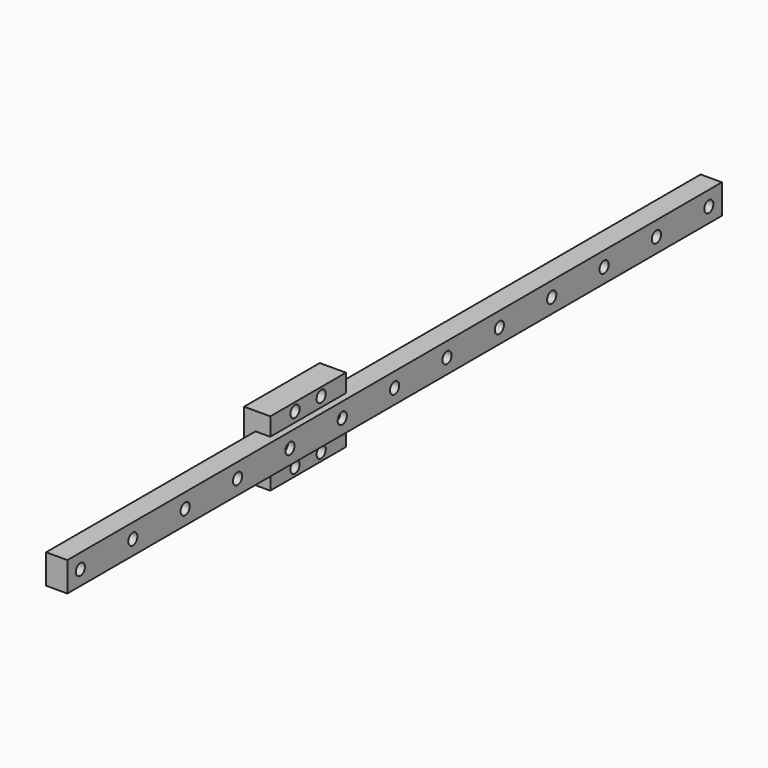
from build123d import *

# Parameters (mm, degrees)
SKETCH026_W             = 9
SKETCH026_H             = 250
PAD014_DEPTH            = 6.5
SKETCH027_R             = 1.75
POCKET010_DEPTH         = 6.5
LINEARPATTERN005_COUNT  = 13
LINEARPATTERN005_PITCH  = 20
SKETCH028_R             = 3
POCKET011_DEPTH         = 3.5
LINEARPATTERN004_COUNT  = 13
LINEARPATTERN004_PITCH  = 20
SKETCH025_W             = 20
SKETCH025_H             = 28.9
SKETCH025_R             = 1.75
PAD015_DEPTH            = 8
BODY006_PLACEMENT_ANGLE = 90


with BuildPart() as part:
    # Sketch026 → Pad014 (new body)
    with BuildSketch(Plane.XY):
        with Locations((0, 125)):
            Rectangle(SKETCH026_W, SKETCH026_H)
    extrude(amount=-PAD014_DEPTH)

    # Sketch027 → Pocket010 (cut)
    with BuildSketch(Plane.XY):
        with Locations((0, 5)):
            Circle(SKETCH027_R)
    pocket010 = extrude(amount=-POCKET010_DEPTH, mode=Mode.SUBTRACT)

    # LinearPattern005: Pocket010 ×13
    with Locations(*[(0, i * LINEARPATTERN005_PITCH, 0) for i in range(1, LINEARPATTERN005_COUNT)]):
        add(pocket010, mode=Mode.SUBTRACT)

    # Sketch028 → Pocket011 (cut)
    with BuildSketch(Plane.XY):
        with Locations((0, 5)):
            Circle(SKETCH028_R)
    pocket011 = extrude(amount=-POCKET011_DEPTH, mode=Mode.SUBTRACT)

    # LinearPattern004: Pocket011 ×13
    with Locations(*[(0, i * LINEARPATTERN004_PITCH, 0) for i in range(1, LINEARPATTERN004_COUNT)]):
        add(pocket011, mode=Mode.SUBTRACT)

    # Sketch025 → Pad015 (join)
    with BuildSketch(Plane.XY.offset(-4.5)):
        with Locations((0, 94.45)):
            Rectangle(SKETCH025_W, SKETCH025_H)
        with Locations((-7.5, 99.45)):
            Circle(SKETCH025_R, mode=Mode.SUBTRACT)
        with Locations((7.5, 99.45)):
            Circle(SKETCH025_R, mode=Mode.SUBTRACT)
        with Locations((7.5, 89.45)):
            Circle(SKETCH025_R, mode=Mode.SUBTRACT)
        with Locations((-7.5, 89.45)):
            Circle(SKETCH025_R, mode=Mode.SUBTRACT)
    extrude(amount=PAD015_DEPTH)


with BuildPart() as part_1:
    # Body006 placement: moved
    add(part.part.moved(Location((128.5, 0, -15))).rotate(Axis((128.5, 0, -15), (0, -1, 0)), BODY006_PLACEMENT_ANGLE))


solid = part_1.part
